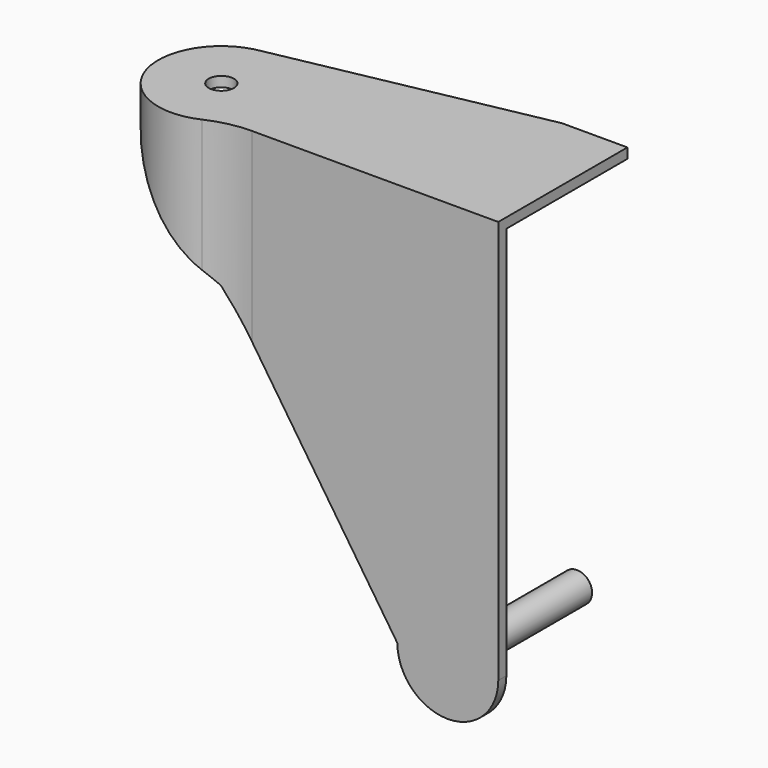
from build123d import *

# Parameters (mm, degrees)
F0_R          = 3.81
F1_DEPTH      = 38.1
F3_DEPTH      = 2.54
F4_R          = 15.875
F5_DEPTH      = 57.912
F7_DEPTH      = 40.64
F7_DEPTH_BACK = 30.988
F9_DEPTH      = 140.716
F11_DEPTH     = 2.54
F12_R         = 25.4
F13_R         = 3.175
F14_DEPTH     = 25.4


with BuildPart() as f1:
    # F0 (on Front) → F1 (new body)
    with BuildSketch(Plane.XZ):
        Circle(F0_R)
    extrude(amount=F1_DEPTH)

    # F2 (on face) → F3 (join)
    with BuildSketch(Plane.XZ.offset(38.1)):
        with BuildLine():
            ThreePointArc((-12.7, 0), (0, -12.7), (12.7, 0))
            ThreePointArc((12.7, 0), (0, 12.7), (-12.7, 0))
        make_face()
        with BuildLine():
            ThreePointArc((-12.7, 0), (0, 12.7), (12.7, 0))
            Line((12.7, 0), (12.7, 101.6))
            Line((12.7, 101.6), (-63.5, 101.6))
            Line((-63.5, 101.6), (-63.5, 76.2))
            Line((-63.5, 76.2), (-12.7, 0))
        make_face()
    extrude(amount=F3_DEPTH)

    # F4 (on face) → F5 (join)
    with BuildSketch(Plane.XY.offset(101.6)):
        with Locations((-66.675, -28.575)):
            Circle(F4_R)
    extrude(amount=-F5_DEPTH)

    # F6 (on face) → F7 (cut, two sides)
    with BuildSketch(Plane.XZ.offset(40.64)) as f7_sk:
        with BuildLine():
            Line((-44.4512212261, -6.503643468), (-12.7, 0))
            Line((-12.7, 0), (-56.3574712261, 65.4862068392))
            ThreePointArc((-56.3574712261, 65.4862068392), (-73.8011886318, 82.898697178), (-84.6138894558, 105.0473675132))
            Line((-84.6138894558, 105.0473675132), (-88.3945673704, 14.1553971916))
            Line((-88.3945673704, 14.1553971916), (-44.4512212261, -6.503643468))
        make_face()
    extrude(amount=-F7_DEPTH, mode=Mode.SUBTRACT)
    extrude(f7_sk.sketch, amount=F7_DEPTH_BACK, mode=Mode.SUBTRACT)

    # F8 (on face) → F9 (cut)
    with BuildSketch(Plane.YZ.offset(12.7)):
        Polygon((-6.1655906029, 4.6855383553), (-6.1655906029, 63.5), (-6.1655906029, 99.06), (-38.1, 99.06), (-38.1, 4.6855383553), align=None)
    extrude(amount=-F9_DEPTH, mode=Mode.SUBTRACT)

    # F10 (on face) → F11 (join)
    with BuildSketch(Plane.XY.offset(101.6)):
        with BuildLine():
            Line((-53.975, -38.1), (12.7, -38.1))
            Line((12.7, -38.1), (12.7, 0))
            Line((12.7, 0), (-3.81, 0))
            Line((-3.81, 0), (-68.9945726443, -12.8703762303))
            ThreePointArc((-68.9945726443, -12.8703762303), (-53.0341863545, -20.4544194735), (-53.975, -38.1))
        make_face()
    extrude(amount=-F11_DEPTH)

    # F12
    f12_edges = [f1.edges().sort_by_distance(p)[0] for p in [
        (-56.357471, -40.64, 83.543103),
    ]]
    fillet(f12_edges, radius=F12_R)

    # F13 (on face) → F14 (cut)
    with BuildSketch(Plane.XY.offset(101.6)):
        with Locations((-66.675, -28.575)):
            Circle(F13_R)
    extrude(amount=-F14_DEPTH, mode=Mode.SUBTRACT)


solid = f1.part
